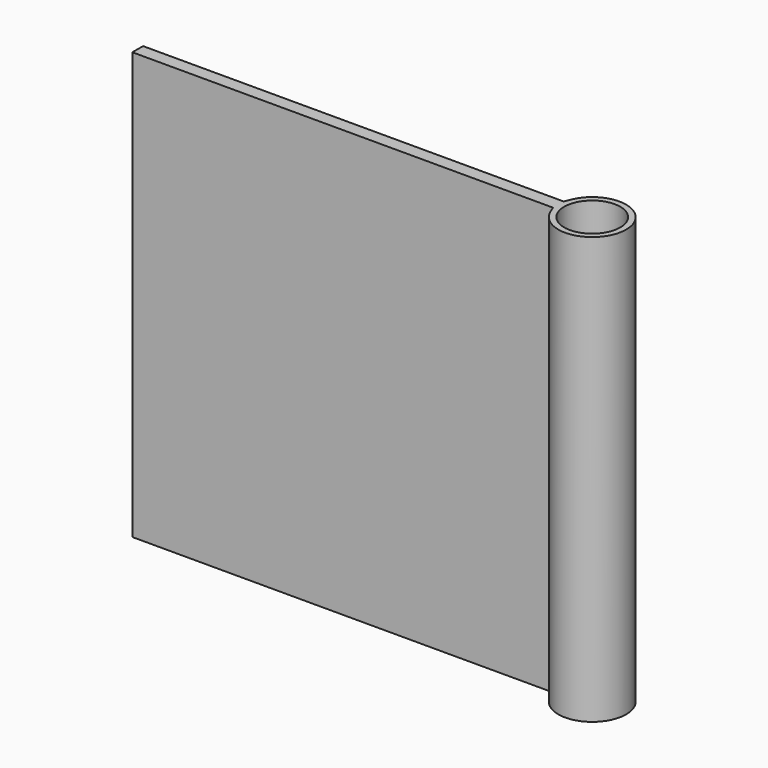
from build123d import *

# Parameters (mm, degrees)
F0_W     = 31.46597
F0_H     = 31.925406
F1_DEPTH = 1
F2_R     = 2.098305
F3_DEPTH = 31.925406


with BuildPart() as f1:
    # F0 (on Front) → F1 (new body)
    with BuildSketch(Plane.XZ):
        with Locations((9.556335, 8.352629)):
            Rectangle(F0_W, F0_H)
    extrude(amount=F1_DEPTH)

    # F2 (on face) → F3 (join, through all)
    with BuildSketch(Plane.XY.offset(24.315332)):
        with BuildLine():
            Line((25.28932, -1), (25.479147, -1.462564))
            ThreePointArc((25.479147, -1.462564), (30.360066, -0.5), (25.479147, 0.462564))
            Line((25.479147, 0.462564), (25.28932, 0))
            Line((25.28932, 0), (25.28932, -1))
        make_face()
        with Locations((27.824693, -0.5)):
            Circle(F2_R, mode=Mode.SUBTRACT)
    extrude(amount=-F3_DEPTH)


solid = f1.part
